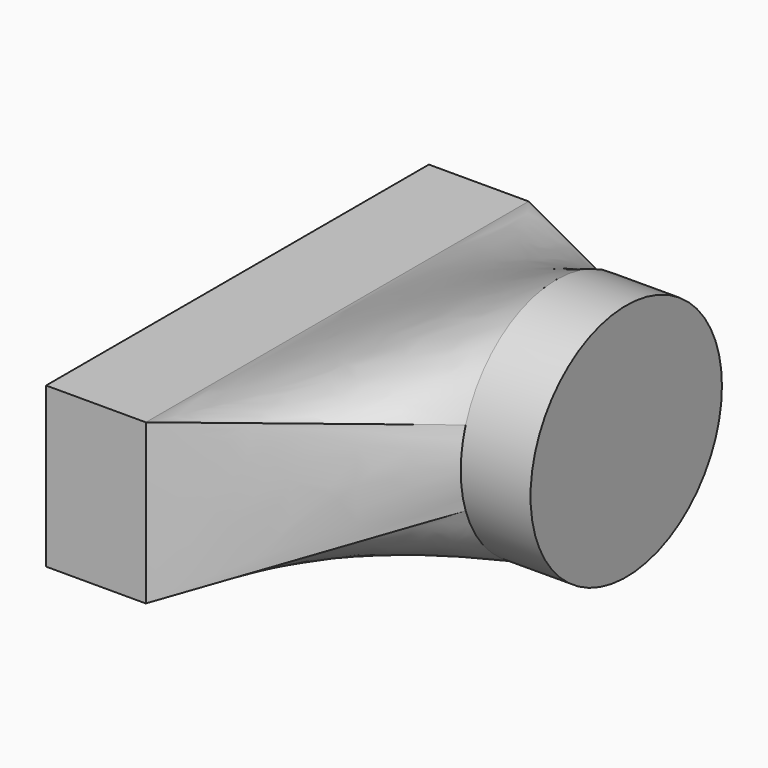
from build123d import *

# Parameters (mm, degrees)
SKETCH003_R  = 76.2
PAD001_DEPTH = 44.45
SKETCH_W     = 304.8
SKETCH_H     = 101.6
SKETCH001_R  = 76.2
SKETCH004_W  = 304.8
SKETCH004_H  = 101.6
PAD_DEPTH    = 63.5


with BuildPart() as part:
    # Sketch003 → Pad001 (new body)
    with BuildSketch(Plane.YZ.offset(254)):
        Circle(SKETCH003_R)
    extrude(amount=PAD001_DEPTH)

    # Sketch → AdditiveLoft section 0
    with BuildSketch(Plane.YZ.offset(114.3)):
        with Locations((0, -38.1)):
            Rectangle(SKETCH_W, SKETCH_H)
    # Sketch001 → AdditiveLoft section 1
    with BuildSketch(Plane.YZ.offset(254)):
        Circle(SKETCH001_R)
    loft()

    # Sketch004 → Pad (join)
    with BuildSketch(Plane.YZ.offset(114.3)):
        with Locations((0, -38.1)):
            Rectangle(SKETCH004_W, SKETCH004_H)
    extrude(amount=-PAD_DEPTH)


solid = part.part
